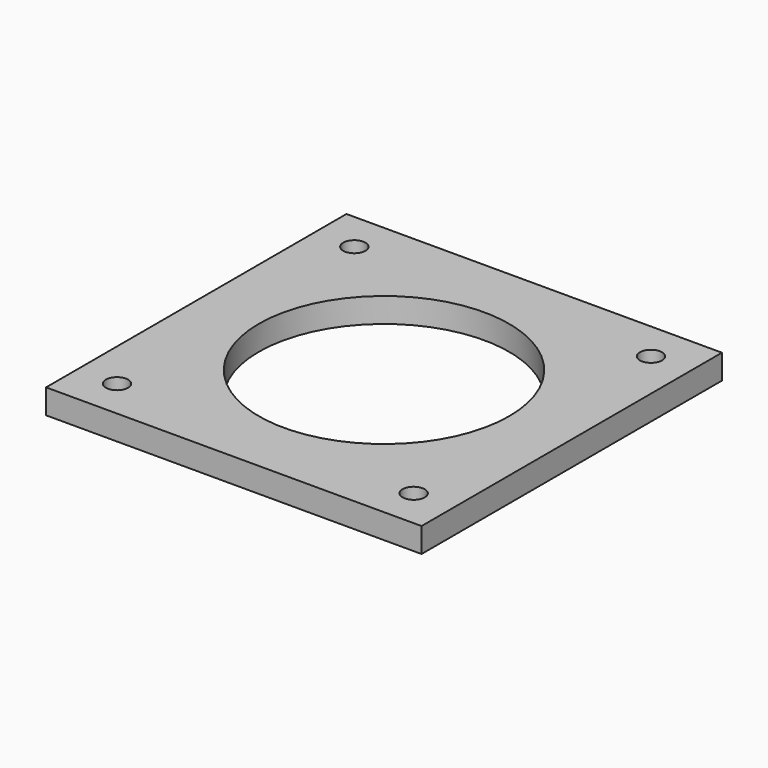
from build123d import *

# Parameters (mm, degrees)
SKETCH_W        = 76.2
SKETCH_H        = 76.2
PAD_DEPTH       = 5
SKETCH001_R     = 25.4
POCKET_DEPTH    = 5.001
SKETCH002_R     = 2.25
POCKET001_DEPTH = 5.001


with BuildPart() as part:
    # Sketch → Pad (new body)
    with BuildSketch(Plane.XY):
        Rectangle(SKETCH_W, SKETCH_H)
    extrude(amount=PAD_DEPTH)

    # Sketch001 (on Face6 of Pad) → Pocket (cut, through all)
    with BuildSketch(Plane.XY.offset(5)):
        Circle(SKETCH001_R)
    extrude(amount=-POCKET_DEPTH, mode=Mode.SUBTRACT)

    # Sketch002 (on Face5 of Pocket) → Pocket001 (cut, through all)
    with BuildSketch(Plane.XY.offset(5)):
        with Locations((-30.1, -30.1)):
            Circle(SKETCH002_R)
        with Locations((30.1, -30.1)):
            Circle(SKETCH002_R)
        with Locations((30.1, 30.1)):
            Circle(SKETCH002_R)
        with Locations((-30.1, 30.1)):
            Circle(SKETCH002_R)
    extrude(amount=-POCKET001_DEPTH, mode=Mode.SUBTRACT)


solid = part.part
